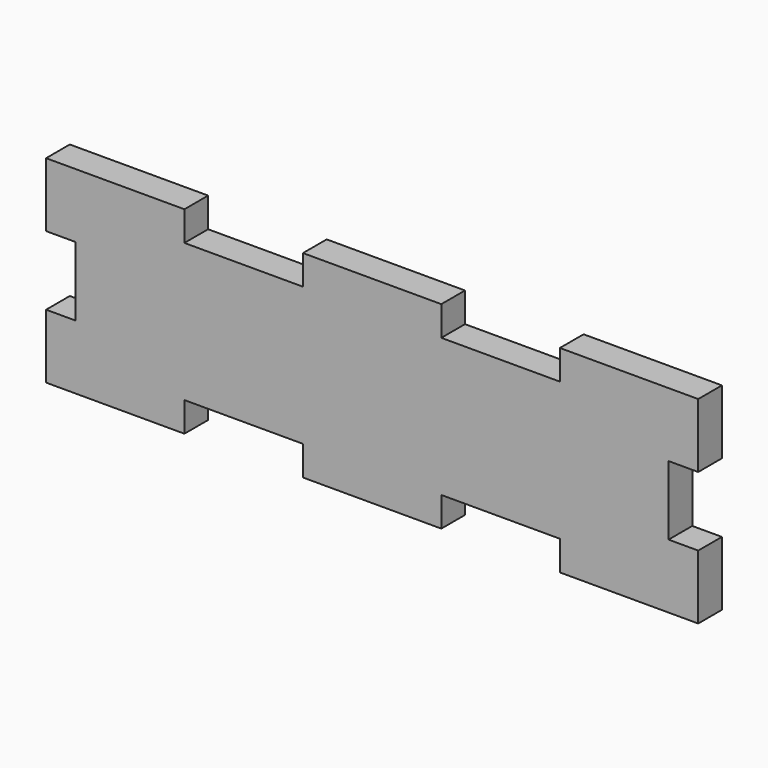
from build123d import *

# Parameters (mm, degrees)
F1_DEPTH = 3


with BuildPart() as f1:
    # F0 (on Front) → F1 (new body)
    with BuildSketch(Plane.XZ):
        Polygon((-19, 10), (-33, 10), (-33, 3.5), (-30, 3.5), (-30, -3.5), (-33, -3.5), (-33, -10), (-19, -10), (-19, -7), (-7, -7), (-7, -10), (7, -10), (7, -7), (19, -7), (19, -10), (33, -10), (33, -3.5), (30, -3.5), (30, 3.5), (33, 3.5), (33, 10), (19, 10), (19, 7), (7, 7), (7, 10), (-7, 10), (-7, 7), (-19, 7), align=None)
    extrude(amount=F1_DEPTH)


solid = f1.part
